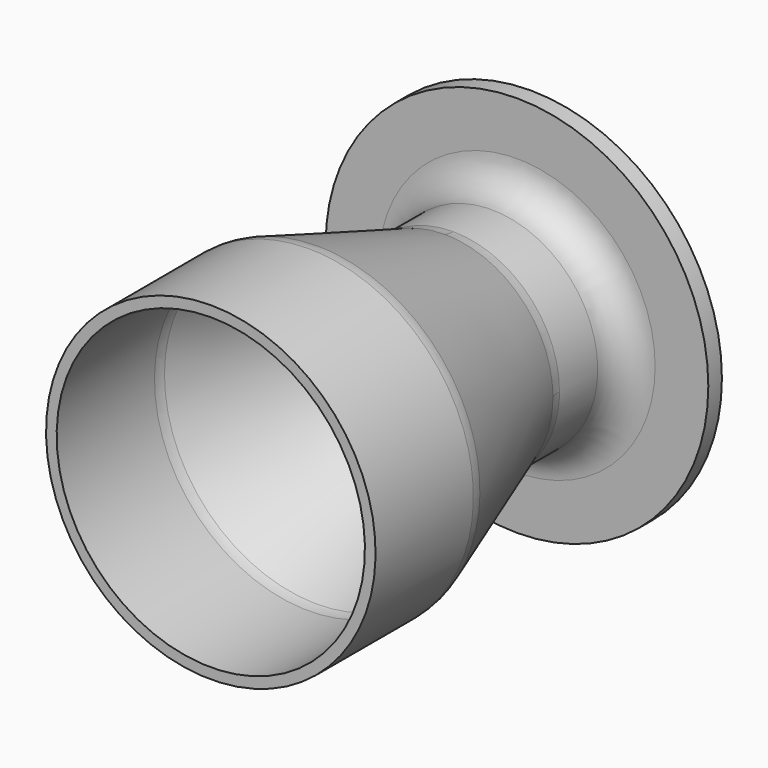
from build123d import *

# Parameters (mm, degrees)
F0_R     = 57.15
F1_DEPTH = 5.08
F2_R     = 31.75
F3_DEPTH = 25.4
F4_R     = 28.575
F5_DEPTH = 30.481
F8_W     = 38.1
F8_H     = 3.175
F10_R    = 9.525
F11_R    = 9.525


with BuildPart() as f1:
    # F0 (on Front) → F1 (new body)
    with BuildSketch(Plane.XZ):
        Circle(F0_R)
    extrude(amount=F1_DEPTH)

    # F2 (on face) → F3 (join)
    with BuildSketch(Plane.XZ.offset(5.08)):
        Circle(F2_R)
    extrude(amount=F3_DEPTH)

    # F4 (on face) → F5 (cut, through all)
    with BuildSketch(Plane.XZ.offset(30.48)):
        Circle(F4_R)
    extrude(amount=-F5_DEPTH, mode=Mode.SUBTRACT)

    # F6 (on Right) → F7 (revolve)
    with BuildSketch(Plane.YZ):
        Polygon((-81.28, 46.0375), (-30.48, 28.575), (-30.48, 31.75), (-81.28, 49.2125), align=None)
    revolve(axis=Axis((0, -18.848058, 0), (0, -1, 0)))

    # F8 (on Right) → F9 (revolve)
    with BuildSketch(Plane.YZ):
        with Locations((-100.33, 47.625)):
            Rectangle(F8_W, F8_H)
    revolve(axis=Axis((0, -63.416593, 0), (0, -1, 0)))

    # F10
    f10_edges = [f1.edges().sort_by_distance(p)[0] for p in [
        (-31.75, -5.08, 0),
        (-22.45064, -30.48, -22.45064),
        (0, -81.28, -49.2125),
    ]]
    fillet(f10_edges, radius=F10_R)

    # F11
    f11_edges = [f1.edges().sort_by_distance(p)[0] for p in [
        (-28.575, 0, 0),
        (-20.205576, -30.48, -20.205576),
        (0, -81.28, -46.0375),
    ]]
    fillet(f11_edges, radius=F11_R)


solid = f1.part
